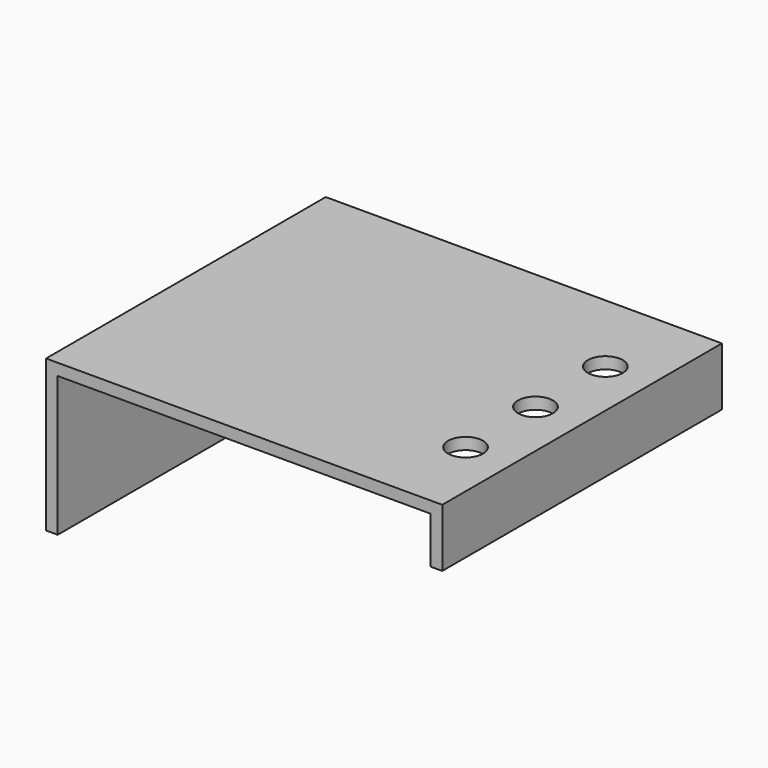
from build123d import *

# Parameters (mm, degrees)
F0_W     = 215.9
F0_H     = 190.5
F1_DEPTH = 6.35
F2_R     = 9.525
F3_DEPTH = 25.4
F4_W     = 6.35
F4_H     = 190.5
F5_DEPTH = 76.2
F6_W     = 6.35
F6_H     = 190.5
F7_DEPTH = 25.4


with BuildPart() as f1:
    # F0 (on Top) → F1 (new body)
    with BuildSketch(Plane.XY):
        with Locations((41.449627, 35.641044)):
            Rectangle(F0_W, F0_H)
    extrude(amount=F1_DEPTH)

    # F2 (on face) → F3 (cut)
    with BuildSketch(Plane.XY.offset(6.35)):
        with Locations((123.999627, 83.266044)):
            Circle(F2_R)
        with Locations((123.999627, 35.641044)):
            Circle(F2_R)
        with Locations((123.999627, -11.983956)):
            Circle(F2_R)
    extrude(amount=-F3_DEPTH, mode=Mode.SUBTRACT)

    # F4 (on face) → F5 (join)
    with BuildSketch(Plane(origin=(0, 0, 0), x_dir=(1, 0, 0), z_dir=(0, 0, -1))):
        with Locations((-63.325373, -35.641044)):
            Rectangle(F4_W, F4_H)
    extrude(amount=F5_DEPTH)

    # F6 (on face) → F7 (join)
    with BuildSketch(Plane(origin=(0, 0, 0), x_dir=(1, 0, 0), z_dir=(0, 0, -1))):
        with Locations((146.224627, -35.641044)):
            Rectangle(F6_W, F6_H)
    extrude(amount=F7_DEPTH)


solid = f1.part
